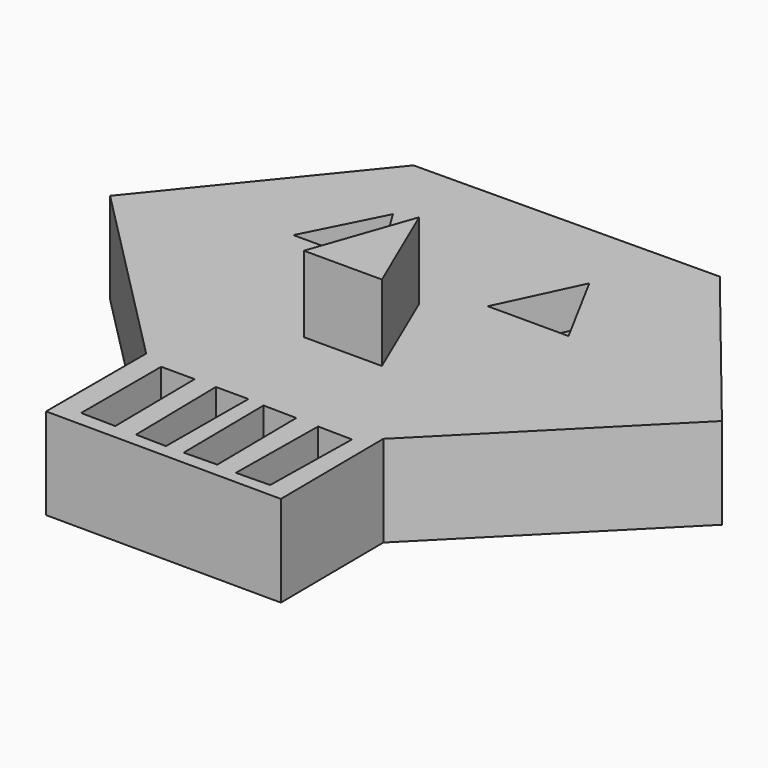
from build123d import *

# Parameters (mm, degrees)
PAD_DEPTH       = 12
POCKET_DEPTH    = 8
POCKET001_DEPTH = 5
PAD001_DEPTH    = 10


with BuildPart() as part:
    # Sketch → Pad (new body)
    with BuildSketch(Plane.XY):
        Polygon((-20.202843, 49.516998), (19.785545, 49.851631), (40, 24.931509), (15.342466, 0.136983), (15.479449, -16.849316), (-15.47945, -16.712328), (-15.47945, -0.273973), (-40.273968, 24.794519), align=None)
    extrude(amount=PAD_DEPTH)

    # Sketch001 (on Face10 of Pad) → Pocket (cut)
    with BuildSketch(Plane.XY.offset(12)):
        Polygon((-12.451404, -1.594348), (-12.451404, -14.745031), (-7.902479, -14.827168), (-8.052838, -1.595545), align=None)
        Polygon((-5.271187, -1.595545), (-5.045653, -14.977527), (-1.061123, -15.052706), (-0.985945, -1.595545), align=None)
        Polygon((1.119081, -1.745904), (1.269447, -15.052706), (5.629864, -14.977527), (5.479505, -1.821082), align=None)
        Polygon((8.411511, -1.896264), (8.250714, -15.208426), (12.696754, -15.127886), (12.922295, -1.971442), align=None)
    extrude(amount=-POCKET_DEPTH, mode=Mode.SUBTRACT)

    # Sketch002 (on Face5 of Pocket) → Pocket001 (cut)
    with BuildSketch(Plane.XY.offset(12)):
        Polygon((-15.068119, 39.735771), (-20.134657, 29.72053), (-8.941154, 29.72053), align=None)
        Polygon((5.315833, 29.83836), (15.920202, 29.83836), (10.264536, 40.324898), align=None)
    extrude(amount=-POCKET001_DEPTH, mode=Mode.SUBTRACT)

    # Sketch003 (on Face5 of Pocket001) → Pad001 (join)
    with BuildSketch(Plane.XY.offset(12)):
        Polygon((-0.533761, 25.884949), (-5.129053, 12.688408), (5.121835, 12.688408), align=None)
    extrude(amount=PAD001_DEPTH)


solid = part.part
